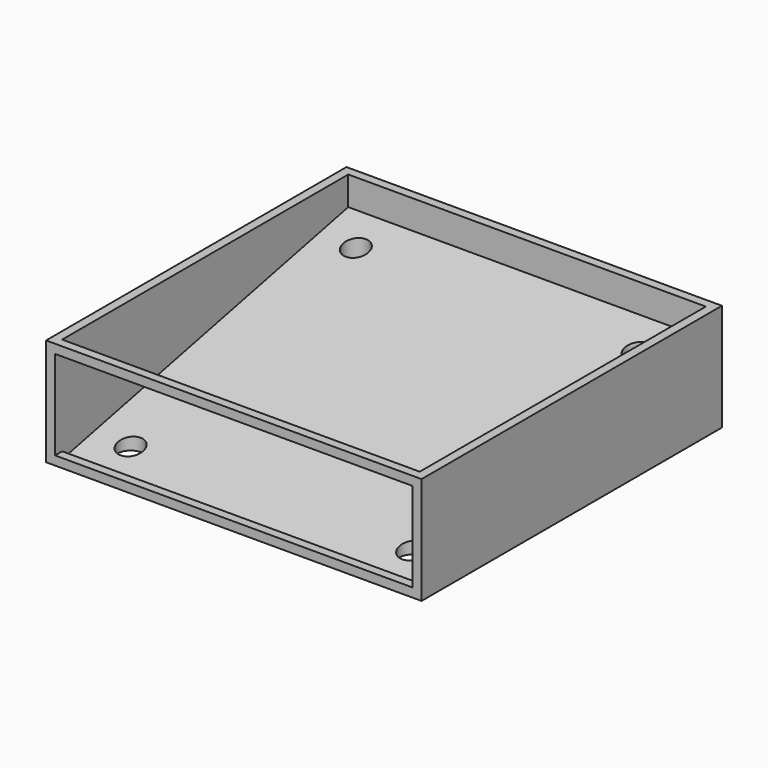
from build123d import *

# Parameters (mm, degrees)
F0_W     = 21
F0_H     = 42
F1_DEPTH = 12
F2_D     = 2.8
F3_W     = 2
F3_H     = 6.526026
F4_DEPTH = 20
F6_W     = 40
F6_H     = 10
F7_DEPTH = 1


with BuildPart() as f1:
    # F0 (on Top) → F1 (new body)
    with BuildSketch(Plane.XY):
        with Locations((10.5, 0)):
            Rectangle(F0_W, F0_H)
    extrude(amount=-F1_DEPTH)

    # F2 (through all)
    with Locations(Plane.XY):
        with Locations((15.75, 15.75), (15.75, -15.75)):
            Hole(F2_D / 2)

    # F3 (on face) → F4 (cut)
    with BuildSketch(Plane(origin=(0, 0, 0), x_dir=(0, -1, 0), z_dir=(-1, 0, 0))):
        Polygon((-20, 0), (-20, -3.214286), (20, -11.785714), (20, 0), align=None)
        Polygon((11.454786, -12), (-19, -5.473974), (-19, -12), align=None)
        with Locations((-20, -8.736987)):
            Rectangle(F3_W, F3_H)
    extrude(amount=-F4_DEPTH, mode=Mode.SUBTRACT)

    # F5: F1 across face


with BuildPart() as f1_1:
    add(f1.part)
    add(f1.part.mirror(Plane(origin=(0, 0.027427, -7.493387), x_dir=(0, -1, 0), z_dir=(-1, 0, 0))))

    # F6 (on face) → F7 (cut)
    with BuildSketch(Plane.XZ.offset(21)):
        with Locations((0, -6)):
            Rectangle(F6_W, F6_H)
    extrude(amount=-F7_DEPTH, mode=Mode.SUBTRACT)


solid = f1_1.part
